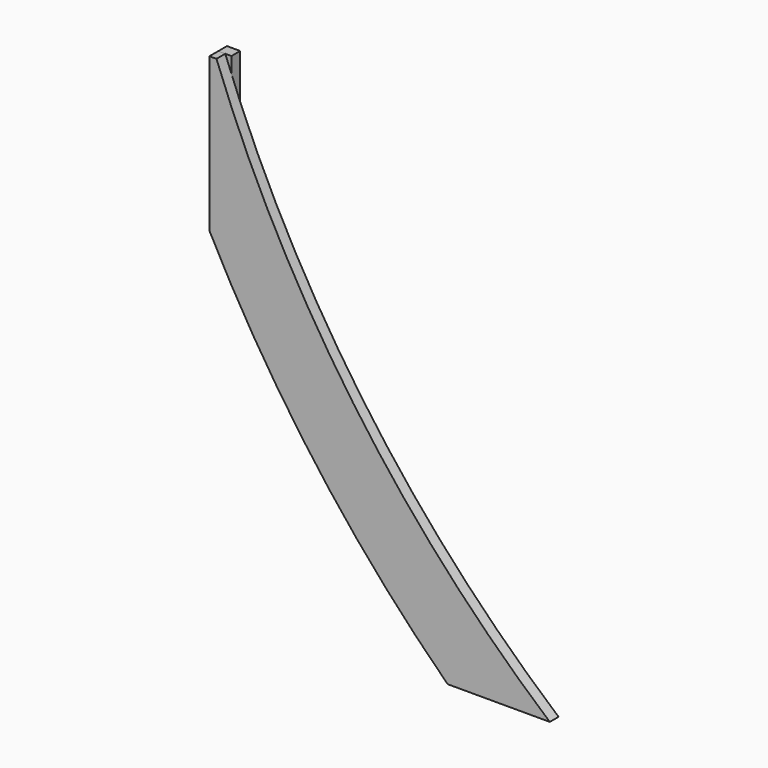
from build123d import *

# Parameters (mm, degrees)
F1_DEPTH = 39
F3_DEPTH = 300


with BuildPart() as f1:
    # F0 (on Front) → F1 (new body)
    with BuildSketch(Plane.XZ):
        with BuildLine():
            Line((-363.178763, 0), (0, 0))
            ThreePointArc((0, 0), (-698.940938, 770.365378), (-1185, 1690))
            Line((-1185, 1690), (-1210, 1690))
            Line((-1210, 1690), (-1210, 1143.746109))
            ThreePointArc((-1210, 1143.746109), (-833.067547, 537.460962), (-363.178763, 0))
        make_face()
    extrude(amount=F1_DEPTH)


with BuildPart() as f3:
    # F2 (on face) → F3 (new body)
    with BuildSketch(Plane.XY.offset(1690)):
        Polygon((-1210, 39), (-1210, 0), (-1185, 0), (-1163, 0), (-1163, 39), align=None)
    extrude(amount=-F3_DEPTH)


solid = Compound([f1.part, f3.part])
